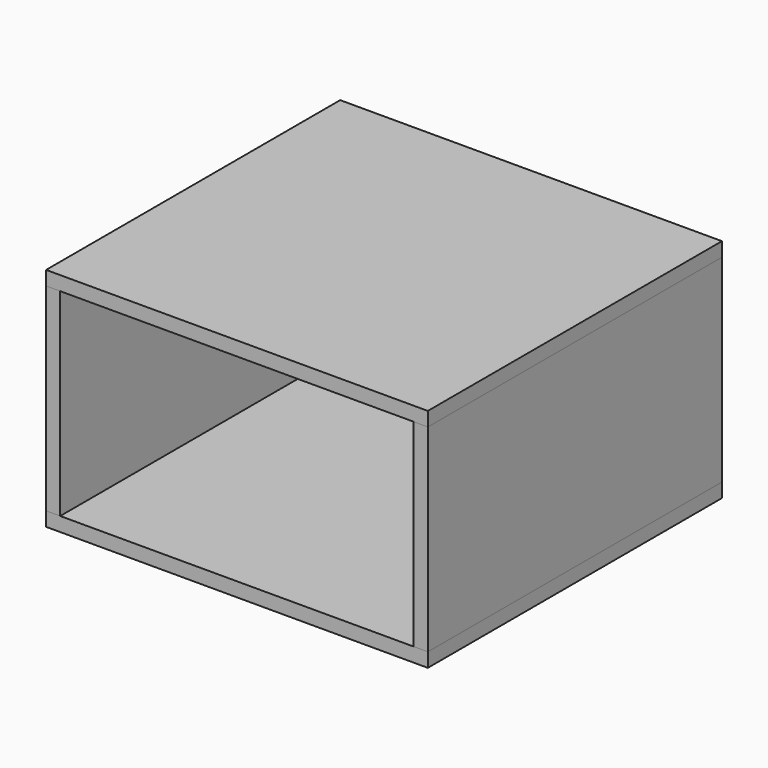
from build123d import *

# Parameters (mm, degrees)
F0_W     = 685.8
F0_H     = 660.4
F1_DEPTH = 25.4
F3_DEPTH = 355.6
F4_W     = 685.8
F4_H     = 660.4
F5_DEPTH = 25.4


with BuildPart() as f1:
    # F0 (on Top) → F1 (new body)
    with BuildSketch(Plane.XY):
        Rectangle(F0_W, F0_H)
    extrude(amount=F1_DEPTH)


with BuildPart() as f3:
    # F2 (on face) → F3 (new body)
    with BuildSketch(Plane.XY.offset(25.4)):
        Polygon((342.9, 330.2), (-342.9, 330.2), (-342.9, -330.2), (-317.5, -330.2), (-317.5, 304.8), (317.5, 304.8), (317.5, -330.2), (342.9, -330.2), align=None)
    extrude(amount=F3_DEPTH)


with BuildPart() as f5:
    # F4 (on face) → F5 (new body)
    with BuildSketch(Plane.XY.offset(381)):
        Rectangle(F4_W, F4_H)
    extrude(amount=F5_DEPTH)


solid = Compound([f1.part, f3.part, f5.part])
